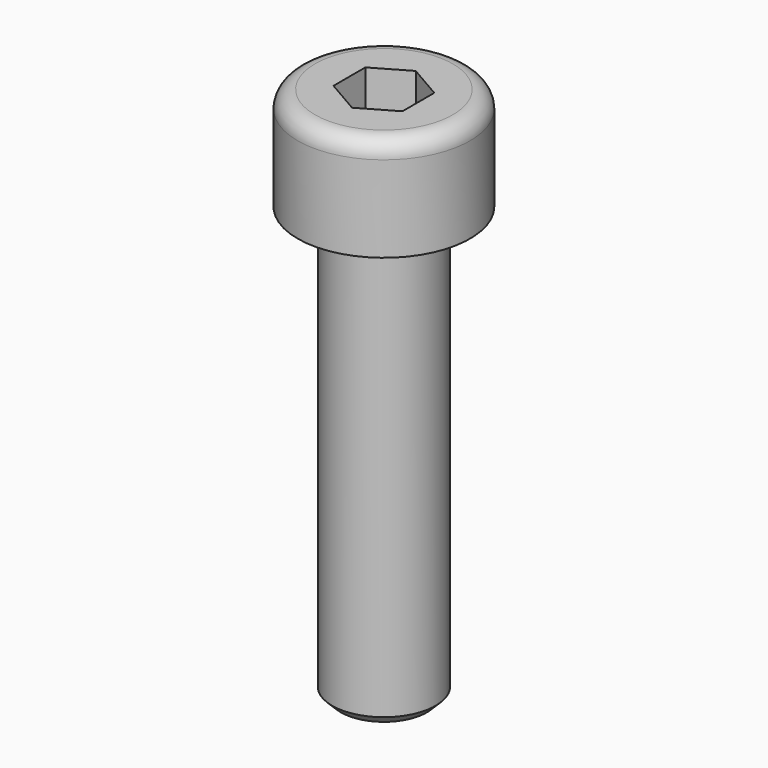
from build123d import *

# Parameters (mm, degrees)
F2_SIZE  = 0.5
F3_R     = 1
F5_DEPTH = 3


with BuildPart() as f1:
    # F0 (on Front) → F1 (revolve)
    with BuildSketch(Plane.XZ):
        Polygon((-3, 0), (0, 0), (0, 31), (-5, 31), (-5, 25), (-3, 25), align=None)
    revolve(axis=Axis((0, 0, 15.604191), (0, 0, 1)))

    # F2
    f2_edges = [f1.edges().sort_by_distance(p)[0] for p in [
        (3, 0, 0),
    ]]
    chamfer(f2_edges, length=F2_SIZE)

    # F3
    f3_edges = [f1.edges().sort_by_distance(p)[0] for p in [
        (5, 0, 31),
    ]]
    fillet(f3_edges, radius=F3_R)

    # F4 (on face) → F5 (cut)
    with BuildSketch(Plane.XY.offset(31)):
        Polygon((-2, 1.154701), (-2, -1.154701), (0, -2.309401), (2, -1.154701), (2, 1.154701), (0, 2.309401), align=None)
    extrude(amount=-F5_DEPTH, mode=Mode.SUBTRACT)


solid = f1.part
